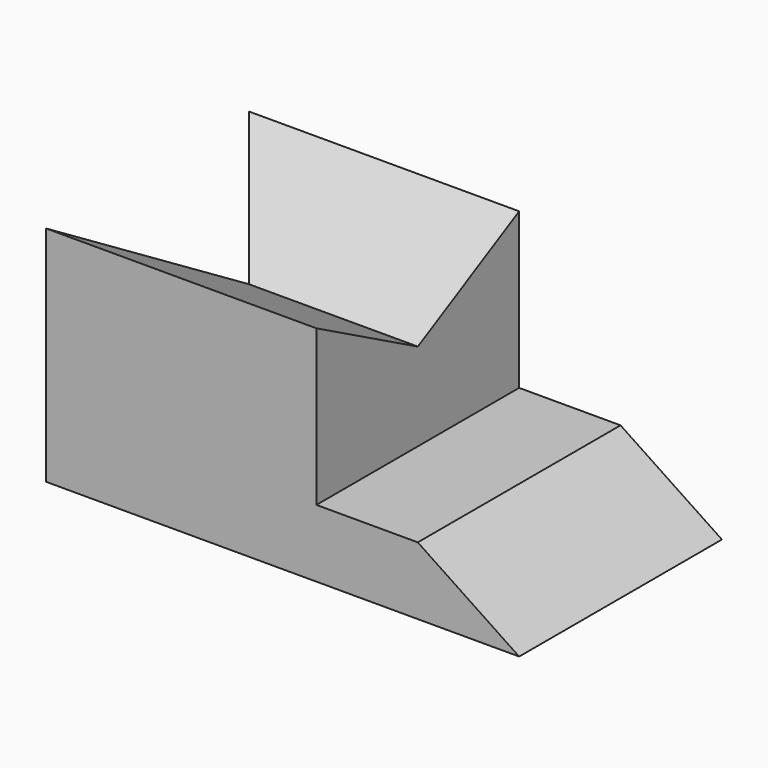
from build123d import *

# Parameters (mm, degrees)
F1_DEPTH = 70
F3_DEPTH = 75.001
F5_DEPTH = 66.001


with BuildPart() as f1:
    # F0 (on Right) → F1 (new body, symmetric)
    with BuildSketch(Plane.YZ):
        Polygon((-37.5, -33), (37.5, -33), (37.5, 33), (0, 13), (-37.5, 33), align=None)
    extrude(amount=F1_DEPTH, both=True)

    # F2 (on face) → F3 (cut, through all)
    with BuildSketch(Plane.XZ.offset(37.5)):
        Polygon((10, -13), (40, -13), (70, -33), (70, 33), (10, 33), align=None)
    extrude(amount=-F3_DEPTH, mode=Mode.SUBTRACT)

    # F4 (on face) → F5 (cut, through all)
    with BuildSketch(Plane(origin=(0, 0, -33), x_dir=(1, 0, 0), z_dir=(0, 0, -1))):
        Polygon((-70, -37.5), (-40, 0), (-70, 37.5), align=None)
    extrude(amount=-F5_DEPTH, mode=Mode.SUBTRACT)


solid = f1.part
